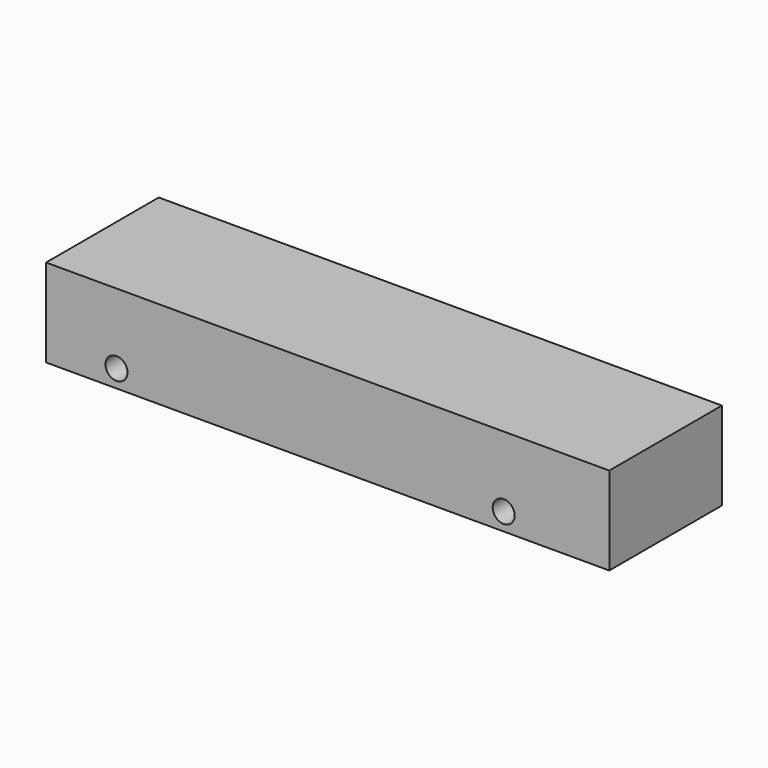
from build123d import *

# Parameters (mm, degrees)
F0_W     = 320
F0_H     = 50
F0_R     = 6.25
F1_DEPTH = 40


with BuildPart() as f1:
    # F0 (on Front) → F1 (new body, symmetric)
    with BuildSketch(Plane.XZ):
        Rectangle(F0_W, F0_H)
        with Locations((-120, -15)):
            Circle(F0_R, mode=Mode.SUBTRACT)
        with Locations((100, -15)):
            Circle(F0_R, mode=Mode.SUBTRACT)
    extrude(amount=F1_DEPTH, both=True)


solid = f1.part
